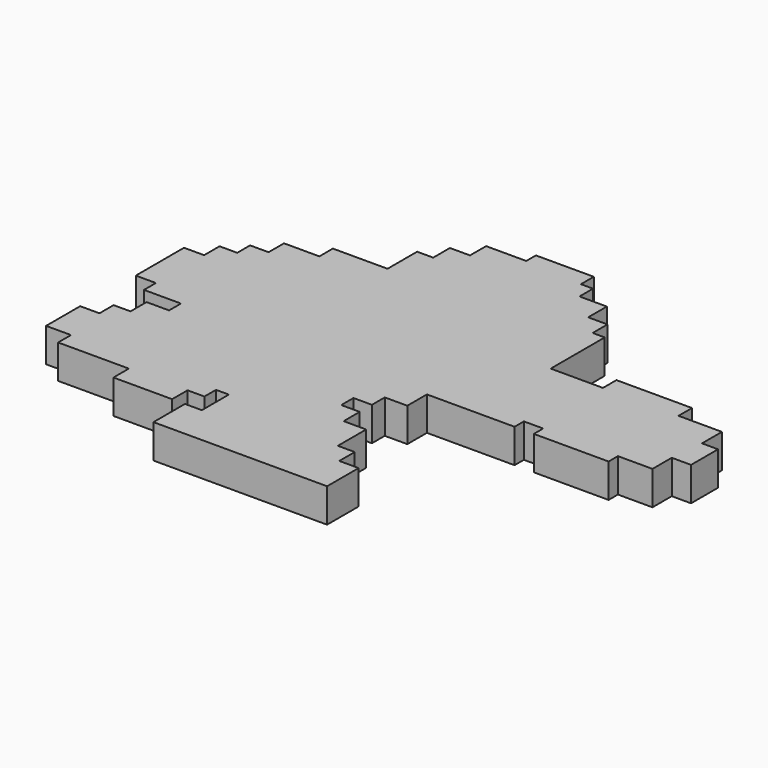
from build123d import *

# Parameters (mm, degrees)
F1_DEPTH = 8.128


with BuildPart() as f1:
    # F0 (on Top) → F1 (new body)
    with BuildSketch(Plane.XY):
        Polygon((0, 56.846671), (-13.890259, 56.846671), (-13.890259, 53.951256), (-23.541646, 53.951256), (-23.541646, 49.12556), (-28.367341, 49.12556), (-28.367341, 44.106841), (-32.227896, 44.106841), (-32.227896, 35.227563), (-45.353781, 35.227563), (-45.353781, 31.173982), (-53.847, 31.173982), (-53.847, 26.541315), (-58.286641, 26.541315), (-58.286641, 22.680759), (-62.533252, 22.680759), (-62.533252, 18.048095), (-67.358941, 18.048095), (-67.358941, 3.571013), (-62.533252, 3.571013), (-62.533252, 0), (-53.653974, 0), (-53.653974, -3.571013), (-59.058752, -3.571013), (-59.058752, -8.396707), (-63.112333, -8.396707), (-63.112333, -12.643318), (-67.745, -12.643318), (-67.745, -22.873789), (-61.761141, -22.873789), (-61.761141, -26.734345), (-44.774696, -26.734345), (-44.774696, -31.367011), (-30.683674, -31.367011), (-30.683674, -26.734345), (-26.630091, -26.734345), (-26.630091, -23.259843), (-23.541646, -23.259843), (-23.541646, -31.367011), (-27.595229, -31.367011), (-27.595229, -40.825367), (14.098763, -40.825367), (14.098763, -31.367011), (9.4661, -31.367011), (9.4661, -26.734345), (5.412515, -26.734345), (5.412515, -18.241122), (0, -18.241122), (0, -13.415428), (-4.431899, -13.415428), (-4.431899, -9.747901), (0, -9.747901), (0, -5.887346), (5.412515, -5.887346), (5.412515, 0), (26.452539, 0), (26.452539, 2.798902), (31.085208, 2.798902), (31.085208, 0), (49.036786, 0), (49.036786, 2.798902), (57.336979, 2.798902), (57.336979, 8.589734), (61.969645, 8.589734), (61.969645, 16.6969), (58.10909, 16.6969), (58.10909, 22.680759), (47.68559, 22.680759), (47.68559, 26.734345), (29.540982, 26.734345), (29.540982, 22.680759), (16.99418, 22.680759), (16.99418, 38.895089), (14.098763, 38.895089), (14.098763, 43.334726), (9.4661, 43.334726), (9.4661, 48.932534), (2.903156, 48.932534), (2.903156, 52.986115), (0, 52.986115), align=None)
    extrude(amount=-F1_DEPTH)


solid = f1.part
